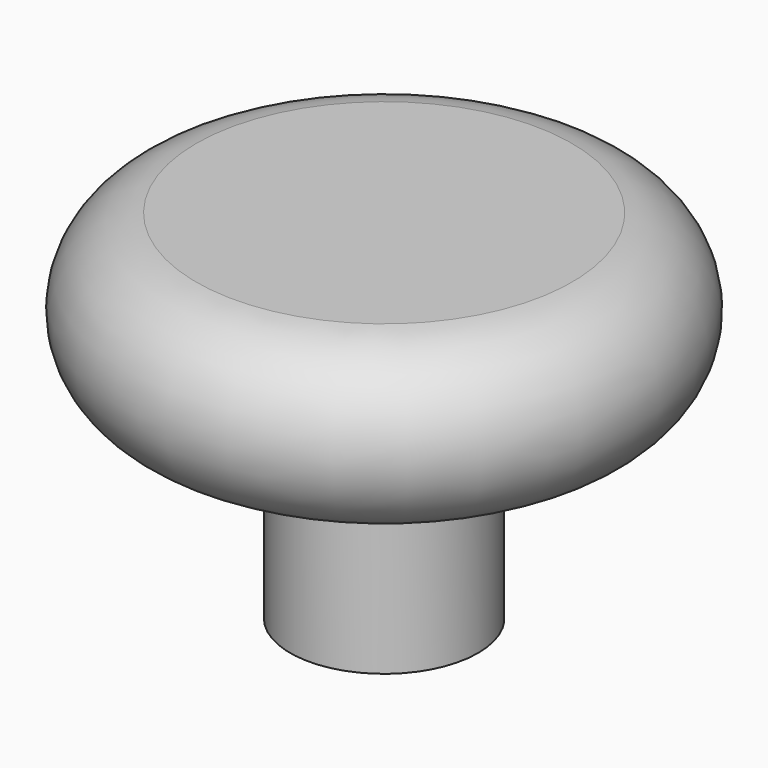
from build123d import *

# Parameters (mm, degrees)
F2_R     = 3.175
F3_DEPTH = 6.35
F5_DEPTH = 0.0635


with BuildPart() as f1:
    # F0 (on Front) → F1 (revolve)
    with BuildSketch(Plane.XZ):
        with BuildLine():
            Line((-30.074457, 23.07059), (-30.074457, 28.78559))
            Line((-30.074457, 28.78559), (-36.424457, 28.78559))
            ThreePointArc((-36.424457, 28.78559), (-38.996207, 25.92809), (-36.424457, 23.07059))
            Line((-36.424457, 23.07059), (-30.074457, 23.07059))
        make_face()
    revolve(axis=Axis((-30.074457, 0, 26.24559), (0, 0, -1)))

    # F2 (on face) → F3 (join)
    with BuildSketch(Plane(origin=(0, 0, 23.07059), x_dir=(1, 0, 0), z_dir=(0, 0, -1))):
        with Locations((-30.074457, 0)):
            Circle(F2_R)
    extrude(amount=F3_DEPTH)

    # F4 (on face) → F5 (join)
    with BuildSketch(Plane(origin=(0, 0, 16.72059), x_dir=(1, 0, 0), z_dir=(0, 0, -1))):
        Polygon((-30.765451, -0.924808), (-29.620068, -1.065534), (-29.620068, 1.96214), (-30.765451, 1.96214), align=None)
        Polygon((-30.765451, -1.246022), (-29.620068, -1.246022), (-29.620068, -1.065534), (-30.765451, -0.924808), align=None)
        Polygon((-29.620068, -1.065534), (-29.620068, -1.246022), (-30.765451, -1.246022), (-30.765451, -0.924808), (-31.044574, -0.890514), (-30.381126, -2.453838), (-29.358972, -1.097613), align=None)
    extrude(amount=F5_DEPTH)


solid = f1.part
